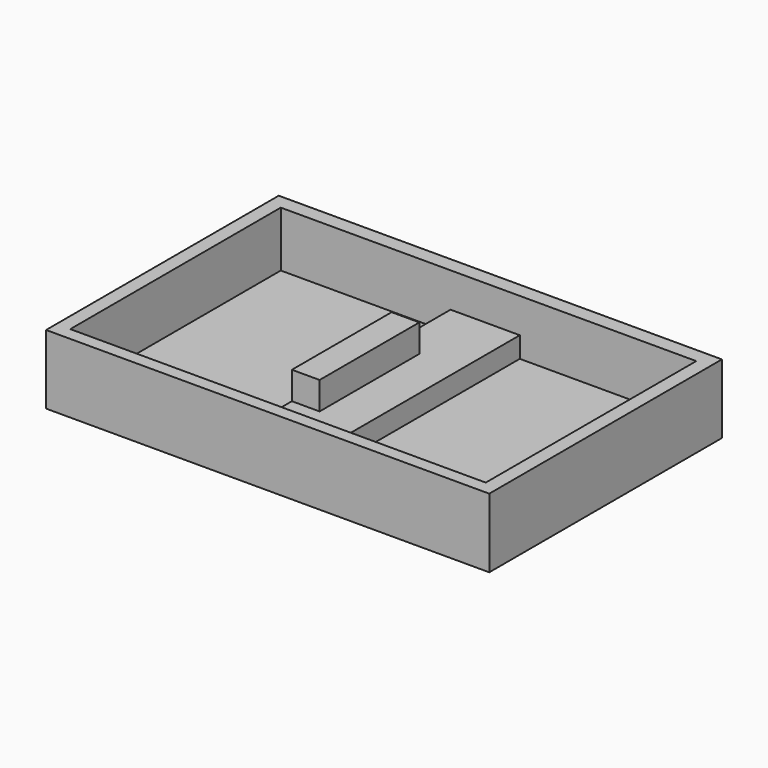
from build123d import *

# Parameters (mm, degrees)
F0_W     = 64
F0_H     = 42
F1_DEPTH = 10
F2_W     = 60
F2_H     = 38
F3_DEPTH = 8
F4_W     = 10
F4_H     = 38
F5_DEPTH = 3
F6_W     = 4
F6_H     = 18
F7_DEPTH = 4


with BuildPart() as f1:
    # F0 (on Top) → F1 (new body)
    with BuildSketch(Plane.XY):
        with Locations((-36.174386, 25.71162)):
            Rectangle(F0_W, F0_H)
    extrude(amount=F1_DEPTH)

    # F2 (on face) → F3 (cut)
    with BuildSketch(Plane.XY.offset(10)):
        with Locations((-36.174389, 25.579226)):
            Rectangle(F2_W, F2_H)
    extrude(amount=-F3_DEPTH, mode=Mode.SUBTRACT)

    # F4 (on face) → F5 (join)
    with BuildSketch(Plane.XY.offset(2)):
        with Locations((-36.658923, 25.579226)):
            Rectangle(F4_W, F4_H)
    extrude(amount=F5_DEPTH)

    # F6 (on face) → F7 (join)
    with BuildSketch(Plane.XY.offset(5)):
        with Locations((-39.658923, 24.941399)):
            Rectangle(F6_W, F6_H)
    extrude(amount=F7_DEPTH)


solid = f1.part
